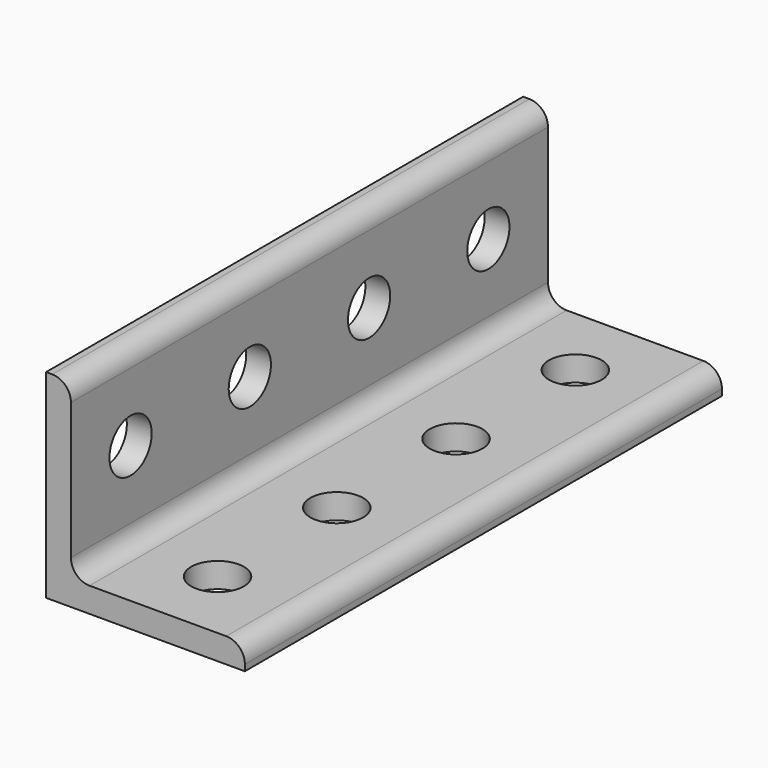
from build123d import *

# Parameters (mm, degrees)
F1_DEPTH = 304.8
F3_D     = 26.9875
F5_D     = 26.9875
F6_R     = 9.525


with BuildPart() as f1:
    # F0 (on Front) → F1 (new body)
    with BuildSketch(Plane.XZ):
        Polygon((12.7, 101.6), (0, 101.6), (0, 0), (101.6, 0), (101.6, 12.7), (12.7, 12.7), align=None)
    extrude(amount=F1_DEPTH)

    # F3 (through all)
    with Locations(Plane.YZ.offset(12.7)):
        with Locations((-266.7, 57.15), (-190.5, 57.15), (-114.3, 57.15), (-38.1, 57.15)):
            Hole(F3_D / 2)

    # F5 (through all)
    with Locations(Plane.XY.offset(12.7)):
        with Locations((57.15, -38.1), (57.15, -114.3), (57.15, -190.5), (57.15, -266.7)):
            Hole(F5_D / 2)

    # F6
    f6_edges = [f1.edges().sort_by_distance(p)[0] for p in [
        (12.7, -152.4, 101.6),
        (12.7, -152.4, 12.7),
        (101.6, -152.4, 12.7),
    ]]
    fillet(f6_edges, radius=F6_R)


solid = f1.part
